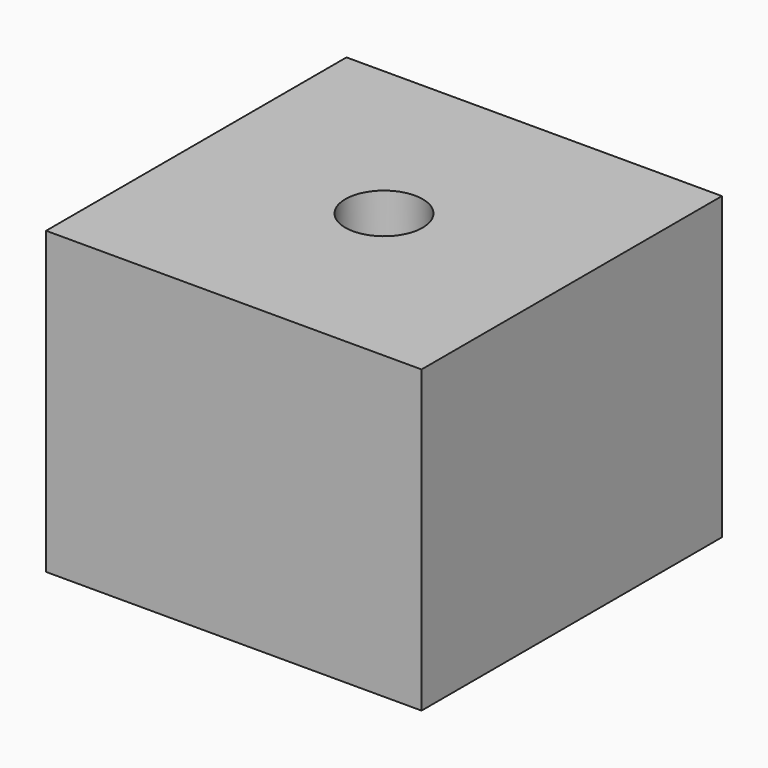
from build123d import *

# Parameters (mm, degrees)
F1_DEPTH = 63.5
F3_D     = 26.162
F3_DEPTH = 24.2316
F3_TIP   = 7.8598577575


with BuildPart() as f1:
    # F0 (on Front) → F1 (new body, symmetric)
    with BuildSketch(Plane.XZ):
        Polygon((63.5, 50.8), (0, 50.8), (-63.5, 50.8), (-63.5, -50.8), (63.5, -50.8), align=None)
    extrude(amount=F1_DEPTH, both=True)

    # F3
    with Locations(Plane.XY.offset(50.8)):
        with Locations((0, 0)):
            Hole(F3_D / 2, depth=F3_DEPTH)
            with Locations((0, 0, -(F3_DEPTH + F3_TIP / 2))):  # 118° drill point
                Cone(0, F3_D / 2, F3_TIP, mode=Mode.SUBTRACT)


solid = f1.part
